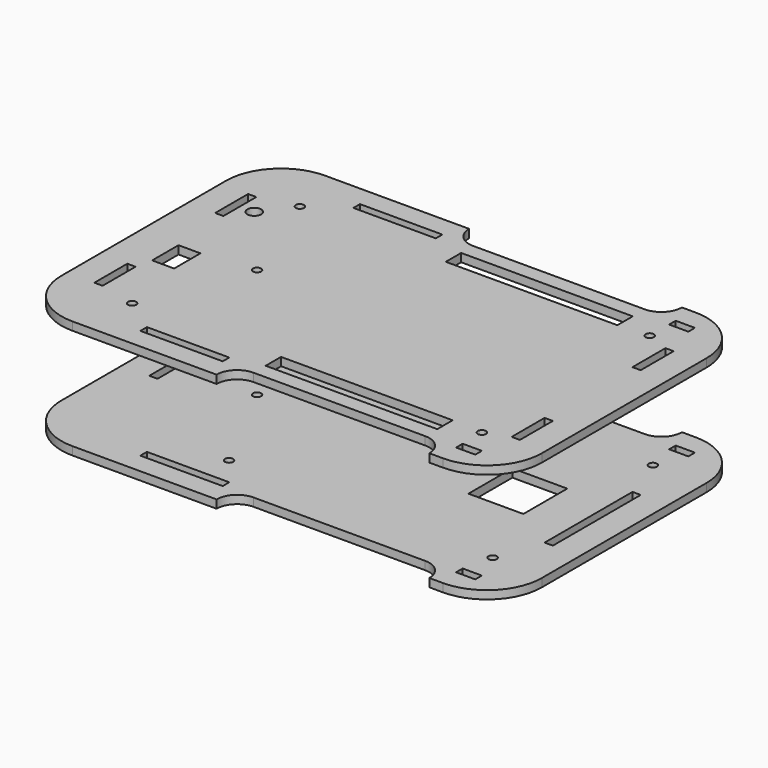
from build123d import *

# Parameters (mm, degrees)
PAD_DEPTH       = 3
SKETCH001_R     = 1.5
POCKET_DEPTH    = 3.001
SKETCH002_W     = 30
SKETCH002_H     = 3
SKETCH002_W_2   = 7
POCKET001_DEPTH = 3.001
SKETCH003_W     = 3
SKETCH003_H     = 20
SKETCH003_H_2   = 40
POCKET002_DEPTH = 3.001
SKETCH004_R     = 1.5
SKETCH004_W     = 20
SKETCH004_H     = 20
POCKET003_DEPTH = 3.001
SKETCH005_W     = 3
SKETCH005_H     = 15
POCKET004_DEPTH = 3.001
SKETCH006_W     = 62.5
SKETCH006_H     = 7
POCKET005_DEPTH = 3.001
SKETCH007_R     = 1.5
POCKET006_DEPTH = 3.001
SKETCH008_R     = 2.5
SKETCH008_W     = 8
SKETCH008_H     = 12
POCKET007_DEPTH = 3.001


with BuildPart() as obj1:
    # Sketch → Pad (new body)
    with BuildSketch(Plane.XY):
        with BuildLine():
            Line((63.749997, 37.5), (63.749997, -37.5))
            ThreePointArc((43.749997, -57.5), (57.892133, -51.642136), (63.749997, -37.5))
            Line((38.749997, -57.5), (43.749997, -57.5))
            ThreePointArc((38.749997, -57.5), (36.553299, -52.1967), (31.25, -50))
            Line((31.25, -50), (-31.25, -49.999975))
            ThreePointArc((-31.25, -49.999975), (-36.553312, -52.196682), (-38.750003, -57.5))
            Line((-91.250003, -57.5), (-38.750003, -57.5))
            ThreePointArc((-111.249998, -37.5), (-105.392135, -51.642134), (-91.250003, -57.5))
            Line((-111.249998, -37.5), (-111.249998, 37.5))
            ThreePointArc((-91.25, 57.5), (-105.392134, 51.642135), (-111.249998, 37.5))
            Line((-91.25, 57.5), (-38.75, 57.5))
            ThreePointArc((-38.75, 57.5), (-36.553301, 52.196699), (-31.25, 50))
            Line((31.25, 50), (-31.25, 50))
            ThreePointArc((31.25, 50), (36.553301, 52.196699), (38.75, 57.5))
            Line((38.75, 57.5), (43.75, 57.5))
            ThreePointArc((63.749997, 37.5), (57.892134, 51.642135), (43.75, 57.5))
        make_face()
    extrude(amount=PAD_DEPTH)

    # Sketch001 → Pocket (cut, through all)
    with BuildSketch(Plane.XY.offset(3)):
        with Locations((-70, 0)):
            Circle(SKETCH001_R)
    extrude(amount=-POCKET_DEPTH, mode=Mode.SUBTRACT)

    # Sketch002 → Pocket001 (cut, through all)
    with BuildSketch(Plane.XY.offset(3)):
        with Locations((-57.5, -48.5)):
            Rectangle(SKETCH002_W, SKETCH002_H)
        with Locations((-57.5, 48.5)):
            Rectangle(SKETCH002_W, SKETCH002_H)
        with Locations((46, 48.5)):
            Rectangle(SKETCH002_W_2, SKETCH002_H)
        with Locations((46, -48.5)):
            Rectangle(SKETCH002_W_2, SKETCH002_H)
    extrude(amount=-POCKET001_DEPTH, mode=Mode.SUBTRACT)


with BuildPart() as tapainferiorhuecospcb:
    # Pocket002 base: copy of obj1
    add(obj1.part)

    # Sketch003 → Pocket002 (cut, through all)
    with BuildSketch(Plane.XY.offset(3)):
        with Locations((-99.75, 0)):
            Rectangle(SKETCH003_W, SKETCH003_H)
        with Locations((52.25, 0)):
            Rectangle(SKETCH003_W, SKETCH003_H_2)
    extrude(amount=-POCKET002_DEPTH, mode=Mode.SUBTRACT)

    # Sketch004 → Pocket003 (cut, through all)
    with BuildSketch(Plane.XY.offset(3)):
        with Locations((-51, 36.5)):
            Circle(SKETCH004_R)
        with Locations((-51, -36.5)):
            Circle(SKETCH004_R)
        with Locations((45, 36.5)):
            Circle(SKETCH004_R)
        with Locations((45, -36.5)):
            Circle(SKETCH004_R)
        with Locations((25, 0)):
            Rectangle(SKETCH004_W, SKETCH004_H)
    extrude(amount=-POCKET003_DEPTH, mode=Mode.SUBTRACT)


with BuildPart() as obj2:
    # Clone base: copy of obj1
    add(obj1.part)


with BuildPart() as obj2_1:
    # Clone placement: moved
    add(obj2.part.moved(Location((0, 0, 40))))

    # Sketch005 → Pocket004 (cut, through all)
    with BuildSketch(Plane.XY.offset(43)):
        with Locations((52.25, 27.5)):
            Rectangle(SKETCH005_W, SKETCH005_H)
        with Locations((52.25, -27.5)):
            Rectangle(SKETCH005_W, SKETCH005_H)
        with Locations((-99.75, 27.5)):
            Rectangle(SKETCH005_W, SKETCH005_H)
        with Locations((-99.75, -27.5)):
            Rectangle(SKETCH005_W, SKETCH005_H)
    extrude(amount=-POCKET004_DEPTH, mode=Mode.SUBTRACT)

    # Sketch006 → Pocket005 (cut, through all)
    with BuildSketch(Plane.XY.offset(43)):
        with Locations((0, 41)):
            Rectangle(SKETCH006_W, SKETCH006_H)
        with Locations((0, -41)):
            Rectangle(SKETCH006_W, SKETCH006_H)
    extrude(amount=-POCKET005_DEPTH, mode=Mode.SUBTRACT)

    # Sketch007 → Pocket006 (cut, through all)
    with BuildSketch(Plane.XY.offset(43)):
        with Locations((-84.95, 38.2)):
            Circle(SKETCH007_R)
        with Locations((-84.95, -38.2)):
            Circle(SKETCH007_R)
        with Locations((42.45, 38.2)):
            Circle(SKETCH007_R)
        with Locations((42.45, -38.2)):
            Circle(SKETCH007_R)
    extrude(amount=-POCKET006_DEPTH, mode=Mode.SUBTRACT)

    # Sketch008 → Pocket007 (cut, through all)
    with BuildSketch(Plane.XY.offset(43)):
        with Locations((-93, 27.5)):
            Circle(SKETCH008_R)
        with Locations((-93, -8)):
            Rectangle(SKETCH008_W, SKETCH008_H)
    extrude(amount=-POCKET007_DEPTH, mode=Mode.SUBTRACT)


solid = Compound([tapainferiorhuecospcb.part, obj2_1.part])
